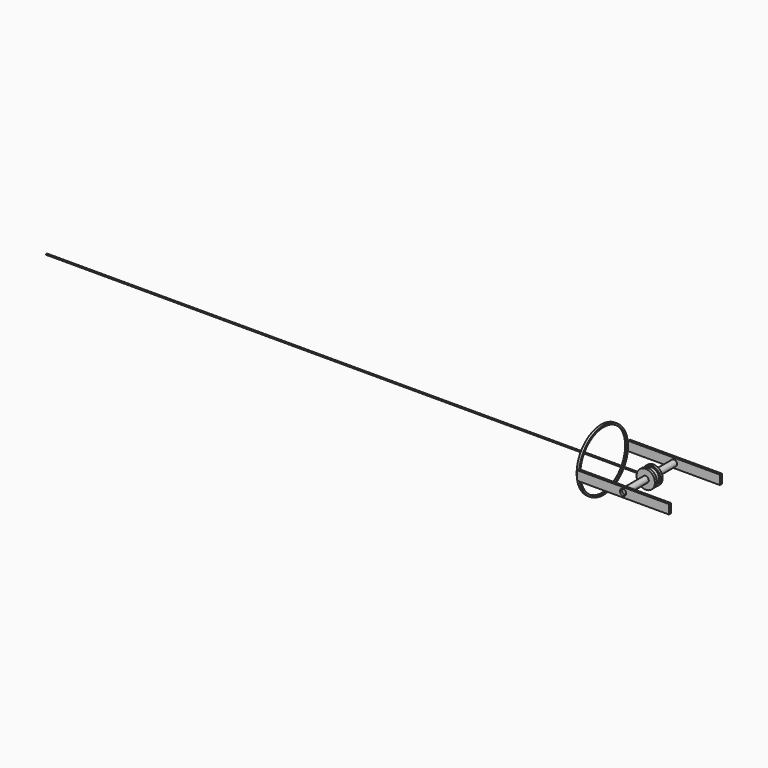
from build123d import *

# Parameters (mm, degrees)
F0_R      = 3.81
F0_R_2    = 3.175
F1_DEPTH  = 1
F2_R      = 3.175
F3_DEPTH  = 2
F4_R      = 3.81
F4_R_2    = 3.175
F5_DEPTH  = 1
F6_R      = 1.27
F7_DEPTH  = 25.4
F8_R      = 1.27
F9_DEPTH  = 10.668
F10_DEPTH = 14.732
F11_W     = 38.1
F11_H     = 3.81
F11_R     = 1.27
F12_DEPTH = 1
F13_W     = 38.1
F13_H     = 3.81
F13_R     = 1.27
F14_DEPTH = 1
F15_R     = 12.0279233686
F16_DEPTH = 1
F17_R     = 0.635
F18_R     = 0.25
F19_DEPTH = 250


with BuildPart() as f1:
    # F0 (on Front) → F1 (new body)
    with BuildSketch(Plane.XZ):
        Circle(F0_R)
        Circle(F0_R_2, mode=Mode.SUBTRACT)
        Circle(F0_R_2)
    extrude(amount=F1_DEPTH)

    # F2 (on face) → F3 (join)
    with BuildSketch(Plane.XZ.offset(1)):
        Circle(F2_R)
    extrude(amount=F3_DEPTH)

    # F4 (on face) → F5 (join)
    with BuildSketch(Plane.XZ.offset(3)):
        Circle(F4_R)
        Circle(F4_R_2, mode=Mode.SUBTRACT)
        Circle(F4_R_2)
    extrude(amount=F5_DEPTH)

    # F6 (on face) → F7 (cut)
    with BuildSketch(Plane.XZ.offset(4)):
        Circle(F6_R)
    extrude(amount=-F7_DEPTH, mode=Mode.SUBTRACT)


with BuildPart() as f9:
    # F8 (on Front) → F9 (new body)
    with BuildSketch(Plane.XZ):
        Circle(F8_R)
    extrude(amount=-F9_DEPTH)


with BuildPart() as f10:
    # F10 (new): a face of the model
    f10_faces = [f9.part.faces().sort_by_distance(p)[0] for p in [
        (0, 0, 0),
    ]]
    extrude(f10_faces, amount=F10_DEPTH)


with BuildPart() as f12:
    # F11 (on face) → F12 (new body)
    with BuildSketch(Plane.XZ.offset(14.732)):
        Rectangle(F11_W, F11_H)
        Circle(F11_R, mode=Mode.SUBTRACT)
    extrude(amount=F12_DEPTH)


with BuildPart() as f14:
    # F13 (on face) → F14 (new body)
    with BuildSketch(Plane(origin=(0, 10.668, 0), x_dir=(-1, 0, 0), z_dir=(0, 1, 0))):
        Rectangle(F13_W, F13_H)
        Circle(F13_R, mode=Mode.SUBTRACT)
    extrude(amount=F14_DEPTH)


with BuildPart() as f16:
    # F15 (on face) → F16 (new body)
    with BuildSketch(Plane(origin=(-19.05, 0, 0), x_dir=(0, -1, 0), z_dir=(-1, 0, 0))):
        with BuildLine():
            ThreePointArc((-10.668, 8.8e-09), (2.0319999956, -12.7), (14.732, 0))
            ThreePointArc((14.732, 0), (2.0320000044, 12.7), (-10.668, 8.8e-09))
        make_face()
        with Locations((2.032, 0)):
            Circle(F15_R, mode=Mode.SUBTRACT)
    extrude(amount=F16_DEPTH)

    # F17
    f17_edges = [f16.edges().sort_by_distance(p)[0] for p in [
        (-20.05, 9.995923, 0),
    ]]
    fillet(f17_edges, radius=F17_R)


with BuildPart() as f19:
    # F18 (on Right) → F19 (new body)
    with BuildSketch(Plane.YZ):
        with Locations((-1.9265172215, 0)):
            Circle(F18_R)
    extrude(amount=-F19_DEPTH)


solid = Compound([f1.part, f9.part, f10.part, f12.part, f14.part, f16.part, f19.part])
